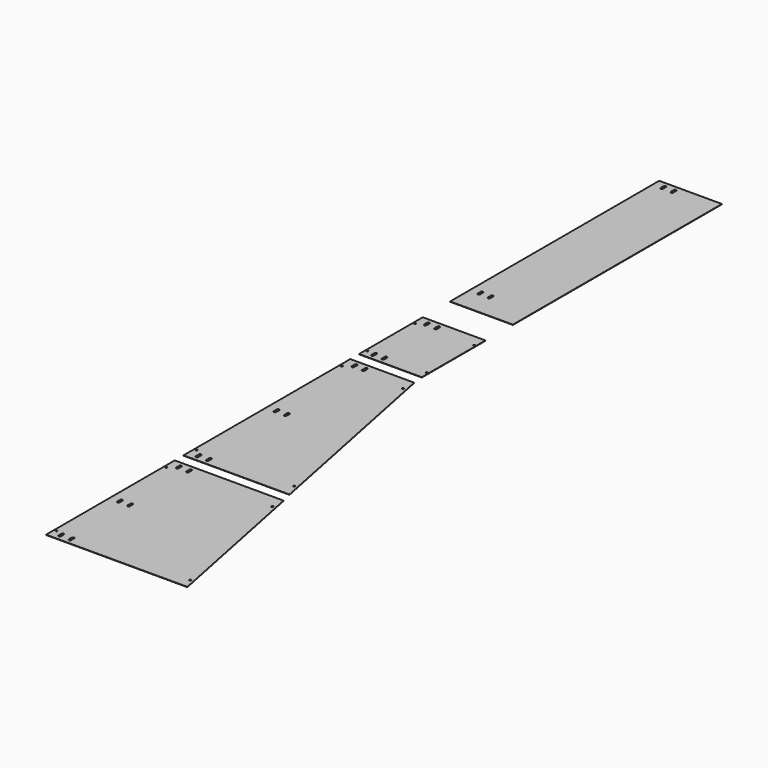
from build123d import *

# Parameters (mm, degrees)
F0_R     = 2.75
F0_W     = 183
F0_H     = 232
F0_H_2   = 762
F1_DEPTH = 1


with BuildPart() as f1:
    # F0 (on Top) → F1 (new body)
    with BuildSketch(Plane.XY):
        Polygon((0, 469), (0, 0), (412, 0), (317.373382, 469), align=None)
        with Locations((6.5, 30)):
            Circle(F0_R, mode=Mode.SUBTRACT)
        with BuildLine():
            Line((31.5, 25.5), (31.5, 14.5))
            ThreePointArc((31.5, 14.5), (28, 11), (24.5, 14.5))
            Line((24.5, 14.5), (24.5, 25.5))
            ThreePointArc((24.5, 25.5), (28, 29), (31.5, 25.5))
        make_face(mode=Mode.SUBTRACT)
        with BuildLine():
            Line((31.5, 240), (31.5, 229))
            ThreePointArc((31.5, 229), (28, 225.5), (24.5, 229))
            Line((24.5, 229), (24.5, 240))
            ThreePointArc((24.5, 240), (28, 243.5), (31.5, 240))
        make_face(mode=Mode.SUBTRACT)
        with BuildLine():
            Line((61.5, 25.5), (61.5, 14.5))
            ThreePointArc((61.5, 14.5), (58, 11), (54.5, 14.5))
            Line((54.5, 14.5), (54.5, 25.5))
            ThreePointArc((54.5, 25.5), (58, 29), (61.5, 25.5))
        make_face(mode=Mode.SUBTRACT)
        with BuildLine():
            Line((61.5, 240), (61.5, 229))
            ThreePointArc((61.5, 229), (58, 225.5), (54.5, 229))
            Line((54.5, 229), (54.5, 240))
            ThreePointArc((54.5, 240), (58, 243.5), (61.5, 240))
        make_face(mode=Mode.SUBTRACT)
        with Locations((6.5, 430)):
            Circle(F0_R, mode=Mode.SUBTRACT)
        with BuildLine():
            Line((31.5, 454.5), (31.5, 443.5))
            ThreePointArc((31.5, 443.5), (28, 440), (24.5, 443.5))
            Line((24.5, 443.5), (24.5, 454.5))
            ThreePointArc((24.5, 454.5), (28, 458), (31.5, 454.5))
        make_face(mode=Mode.SUBTRACT)
        with BuildLine():
            Line((61.5, 454.5), (61.5, 443.5))
            ThreePointArc((61.5, 443.5), (58, 440), (54.5, 443.5))
            Line((54.5, 443.5), (54.5, 454.5))
            ThreePointArc((54.5, 454.5), (58, 458), (61.5, 454.5))
        make_face(mode=Mode.SUBTRACT)
        with Locations((396.5, 30)):
            Circle(F0_R, mode=Mode.SUBTRACT)
        with Locations((315.85, 430)):
            Circle(F0_R, mode=Mode.SUBTRACT)
        Polygon((0, 1109), (0, 501), (309, 501), (186.328392, 1109), align=None)
        with Locations((6.5, 540)):
            Circle(F0_R, mode=Mode.SUBTRACT)
        with BuildLine():
            Line((31.5, 526.5), (31.5, 515.5))
            ThreePointArc((31.5, 515.5), (28, 512), (24.5, 515.5))
            Line((24.5, 515.5), (24.5, 526.5))
            ThreePointArc((24.5, 526.5), (28, 530), (31.5, 526.5))
        make_face(mode=Mode.SUBTRACT)
        with BuildLine():
            Line((61.5, 526.5), (61.5, 515.5))
            ThreePointArc((61.5, 515.5), (58, 512), (54.5, 515.5))
            Line((54.5, 515.5), (54.5, 526.5))
            ThreePointArc((54.5, 526.5), (58, 530), (61.5, 526.5))
        make_face(mode=Mode.SUBTRACT)
        with BuildLine():
            Line((31.5, 810.5), (31.5, 799.5))
            ThreePointArc((31.5, 799.5), (28, 796), (24.5, 799.5))
            Line((24.5, 799.5), (24.5, 810.5))
            ThreePointArc((24.5, 810.5), (28, 814), (31.5, 810.5))
        make_face(mode=Mode.SUBTRACT)
        with BuildLine():
            Line((61.5, 810.5), (61.5, 799.5))
            ThreePointArc((61.5, 799.5), (58, 796), (54.5, 799.5))
            Line((54.5, 799.5), (54.5, 810.5))
            ThreePointArc((54.5, 810.5), (58, 814), (61.5, 810.5))
        make_face(mode=Mode.SUBTRACT)
        with Locations((6.5, 1070)):
            Circle(F0_R, mode=Mode.SUBTRACT)
        with BuildLine():
            Line((31.5, 1094.5), (31.5, 1083.5))
            ThreePointArc((31.5, 1083.5), (28, 1080), (24.5, 1083.5))
            Line((24.5, 1083.5), (24.5, 1094.5))
            ThreePointArc((24.5, 1094.5), (28, 1098), (31.5, 1094.5))
        make_face(mode=Mode.SUBTRACT)
        with BuildLine():
            Line((61.5, 1094.5), (61.5, 1083.5))
            ThreePointArc((61.5, 1083.5), (58, 1080), (54.5, 1083.5))
            Line((54.5, 1083.5), (54.5, 1094.5))
            ThreePointArc((54.5, 1094.5), (58, 1098), (61.5, 1094.5))
        make_face(mode=Mode.SUBTRACT)
        with Locations((184.7, 1070)):
            Circle(F0_R, mode=Mode.SUBTRACT)
        with Locations((291.63, 540)):
            Circle(F0_R, mode=Mode.SUBTRACT)
        with Locations((91.5, 1257)):
            Rectangle(F0_W, F0_H)
        with Locations((5, 1165)):
            Circle(F0_R, mode=Mode.SUBTRACT)
        with BuildLine():
            Line((31.5, 1166.5), (31.5, 1155.5))
            ThreePointArc((31.5, 1155.5), (28, 1152), (24.5, 1155.5))
            Line((24.5, 1155.5), (24.5, 1166.5))
            ThreePointArc((24.5, 1166.5), (28, 1170), (31.5, 1166.5))
        make_face(mode=Mode.SUBTRACT)
        with Locations((5, 1338)):
            Circle(F0_R, mode=Mode.SUBTRACT)
        with BuildLine():
            Line((31.5, 1358.5), (31.5, 1347.5))
            ThreePointArc((31.5, 1347.5), (28, 1344), (24.5, 1347.5))
            Line((24.5, 1347.5), (24.5, 1358.5))
            ThreePointArc((24.5, 1358.5), (28, 1362), (31.5, 1358.5))
        make_face(mode=Mode.SUBTRACT)
        with BuildLine():
            Line((61.5, 1166.5), (61.5, 1155.5))
            ThreePointArc((61.5, 1155.5), (58, 1152), (54.5, 1155.5))
            Line((54.5, 1155.5), (54.5, 1166.5))
            ThreePointArc((54.5, 1166.5), (58, 1170), (61.5, 1166.5))
        make_face(mode=Mode.SUBTRACT)
        with BuildLine():
            Line((61.5, 1358.5), (61.5, 1347.5))
            ThreePointArc((61.5, 1347.5), (58, 1344), (54.5, 1347.5))
            Line((54.5, 1347.5), (54.5, 1358.5))
            ThreePointArc((54.5, 1358.5), (58, 1362), (61.5, 1358.5))
        make_face(mode=Mode.SUBTRACT)
        with Locations((178, 1165)):
            Circle(F0_R, mode=Mode.SUBTRACT)
        with Locations((178, 1338)):
            Circle(F0_R, mode=Mode.SUBTRACT)
        with Locations((91.5, 1854)):
            Rectangle(F0_W, F0_H_2)
        with BuildLine():
            Line((31.5, 1553.5), (31.5, 1542.5))
            ThreePointArc((31.5, 1542.5), (28, 1539), (24.5, 1542.5))
            Line((24.5, 1542.5), (24.5, 1553.5))
            ThreePointArc((24.5, 1553.5), (28, 1557), (31.5, 1553.5))
        make_face(mode=Mode.SUBTRACT)
        with BuildLine():
            Line((61.5, 1553.5), (61.5, 1542.5))
            ThreePointArc((61.5, 1542.5), (58, 1539), (54.5, 1542.5))
            Line((54.5, 1542.5), (54.5, 1553.5))
            ThreePointArc((54.5, 1553.5), (58, 1557), (61.5, 1553.5))
        make_face(mode=Mode.SUBTRACT)
        with BuildLine():
            Line((31.5, 2220.5), (31.5, 2209.5))
            ThreePointArc((31.5, 2209.5), (28, 2206), (24.5, 2209.5))
            Line((24.5, 2209.5), (24.5, 2220.5))
            ThreePointArc((24.5, 2220.5), (28, 2224), (31.5, 2220.5))
        make_face(mode=Mode.SUBTRACT)
        with BuildLine():
            Line((61.5, 2220.5), (61.5, 2209.5))
            ThreePointArc((61.5, 2209.5), (58, 2206), (54.5, 2209.5))
            Line((54.5, 2209.5), (54.5, 2220.5))
            ThreePointArc((54.5, 2220.5), (58, 2224), (61.5, 2220.5))
        make_face(mode=Mode.SUBTRACT)
    extrude(amount=F1_DEPTH)


solid = f1.part
